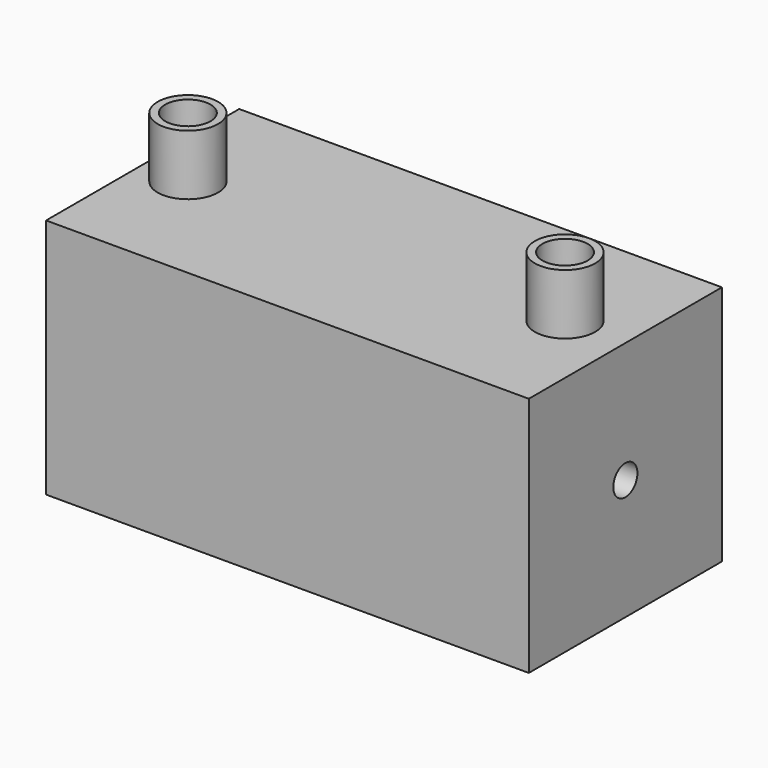
from build123d import *

# Parameters (mm, degrees)
F0_W      = 101.6
F0_H      = 101.6
F1_DEPTH  = 101.6
F3_R      = 38.1
F4_DEPTH  = 184.15
F5_R      = 6.35
F6_DEPTH  = 12.7
F7_R      = 9.525
F8_DEPTH  = 25.4
F9_R      = 12.7
F9_R_2    = 9.525
F10_DEPTH = 25.4


with BuildPart() as f1:
    # F0 (on Right) → F1 (new body, symmetric)
    with BuildSketch(Plane.YZ):
        Rectangle(F0_W, F0_H)
    extrude(amount=F1_DEPTH, both=True)

    # F3 (on offset) → F4 (cut)
    with BuildSketch(Plane.YZ.offset(88.9)):
        Circle(F3_R)
    extrude(amount=-F4_DEPTH, mode=Mode.SUBTRACT)

    # F5 (on face) → F6 (cut, through all)
    with BuildSketch(Plane.YZ.offset(101.6)):
        Circle(F5_R)
    extrude(amount=-F6_DEPTH, mode=Mode.SUBTRACT)

    # F7 (on face) → F8 (cut)
    with BuildSketch(Plane.XY.offset(50.8)):
        with Locations((-82.55, 0)):
            Circle(F7_R)
        with Locations((76.2, 0)):
            Circle(F7_R)
    extrude(amount=-F8_DEPTH, mode=Mode.SUBTRACT)

    # F9 (on face) → F10 (join)
    with BuildSketch(Plane.XY.offset(50.8)):
        with Locations((-82.55, 0)):
            Circle(F9_R)
        with Locations((-82.55, 0)):
            Circle(F9_R_2, mode=Mode.SUBTRACT)
        with Locations((76.2, 0)):
            Circle(F9_R)
        with Locations((76.2, 0)):
            Circle(F9_R_2, mode=Mode.SUBTRACT)
    extrude(amount=F10_DEPTH)


solid = f1.part
